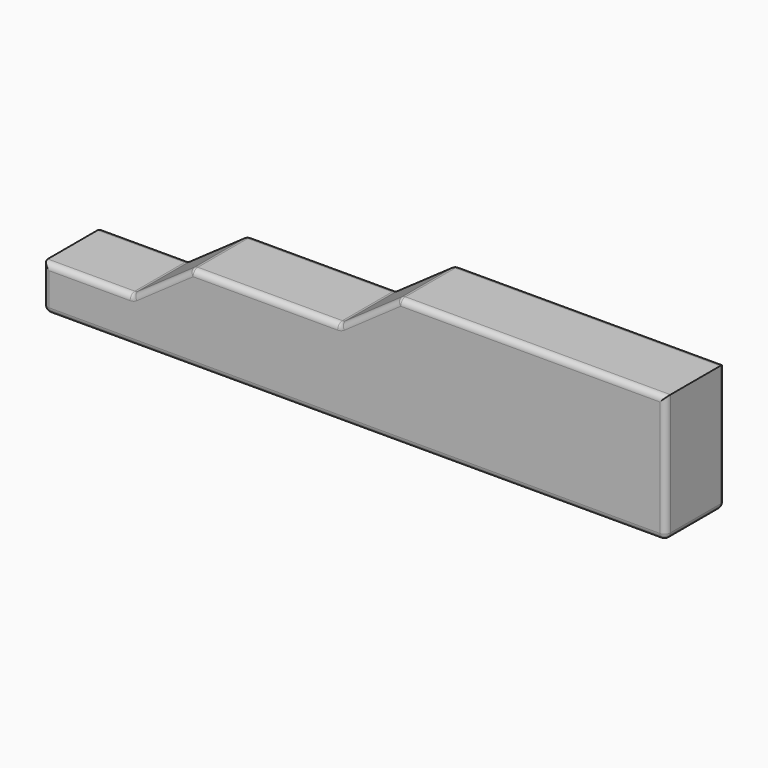
from build123d import *

# Parameters (mm, degrees)
F1_DEPTH = 25
F2_R     = 2


with BuildPart() as f1:
    # F0 (on Front) → F1 (new body)
    with BuildSketch(Plane.XZ):
        Polygon((0, 15), (0, 0), (210, 0), (210, 43.008302), (120, 43.008302), (100, 29.004151), (50, 29.004151), (30, 15), align=None)
    extrude(amount=F1_DEPTH)

    # F2
    f2_edges = [f1.edges().sort_by_distance(p)[0] for p in [
        (165, -25, 43.008302),
        (165, 0, 43.008302),
        (210, -25, 21.504151),
        (210, 0, 21.504151),
        (210, -12.5, 0),
        (105, -25, 0),
        (110, -25, 36.006226),
        (75, -25, 29.004151),
        (40, -25, 22.002075),
        (15, -25, 15),
        (15, 0, 15),
        (30, -12.5, 15),
        (40, 0, 22.002075),
        (50, -12.5, 29.004151),
        (75, 0, 29.004151),
        (110, 0, 36.006226),
        (100, -12.5, 29.004151),
        (120, -12.5, 43.008302),
        (0, 0, 7.5),
        (0, -12.5, 0),
        (0, -25, 7.5),
        (105, 0, 0),
    ]]
    fillet(f2_edges, radius=F2_R)


solid = f1.part
